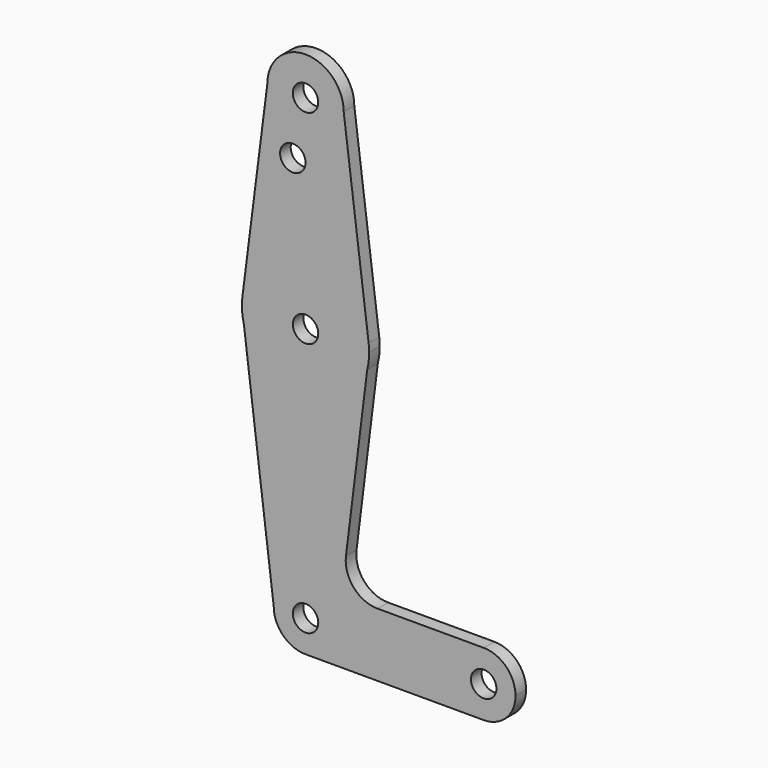
from build123d import *

# Parameters (mm, degrees)
F0_R     = 3.175
F1_DEPTH = 3.302


with BuildPart() as f1:
    # F0 (on Front) → F1 (new body)
    with BuildSketch(Plane.XZ):
        with BuildLine():
            ThreePointArc((-9.525, 114.3), (0, 104.775), (9.525, 114.3))
            ThreePointArc((9.525, 114.3), (0, 123.825), (-9.525, 114.3))
        make_face()
        with Locations((0, 114.3)):
            Circle(F0_R, mode=Mode.SUBTRACT)
        with BuildLine():
            Line((15.747457, 65.508289), (9.525, 114.3))
            ThreePointArc((9.525, 114.3), (0, 104.775), (-9.525, 114.3))
            Line((-9.525, 114.3), (-15.747457, 65.508289))
            ThreePointArc((-15.747457, 65.508289), (0, 79.375), (15.747457, 65.508289))
        make_face()
        with Locations((-3.175, 100.0252)):
            Circle(F0_R, mode=Mode.SUBTRACT)
        with BuildLine():
            ThreePointArc((15.875, 63.5), (15.843082, 64.506168), (15.747457, 65.508289))
            ThreePointArc((15.747457, 65.508289), (0, 79.375), (-15.747457, 65.508289))
            ThreePointArc((-15.747457, 65.508289), (-15.843082, 64.506168), (-15.875, 63.5))
            Line((-15.875, 63.5), (-15.386538, 59.592308))
            ThreePointArc((-15.386538, 59.592308), (0.011376, 47.625004), (15.392123, 59.614363))
            Line((15.392123, 59.614363), (15.875, 63.5))
        make_face()
        with Locations((0, 63.5)):
            Circle(F0_R, mode=Mode.SUBTRACT)
        with BuildLine():
            ThreePointArc((15.392123, 59.614363), (15.753818, 61.542237), (15.875, 63.5))
            Line((15.875, 63.5), (15.392123, 59.614363))
        make_face()
        with BuildLine():
            Line((-15.386538, 59.592308), (-15.875, 63.5))
            ThreePointArc((-15.875, 63.5), (-15.752411, 61.530949), (-15.386538, 59.592308))
        make_face()
        with BuildLine():
            Line((10.082594, 16.889395), (15.392123, 59.614363))
            ThreePointArc((15.392123, 59.614363), (0.011376, 47.625004), (-15.386538, 59.592308))
            Line((-15.386538, 59.592308), (-7.9375, 0))
            ThreePointArc((-7.9375, 0), (0, 7.9375), (7.9375, 0))
            ThreePointArc((7.9375, 0), (5.61266, -5.61266), (0, -7.9375))
            Line((0, -7.9375), (44.45, -7.9375))
            ThreePointArc((44.45, -7.9375), (36.5125, 0), (44.45, 7.9375))
            Line((44.45, 7.9375), (17.969436, 7.9375))
            ThreePointArc((17.969436, 7.9375), (12.004147, 10.632131), (10.082594, 16.889395))
        make_face()
        with BuildLine():
            ThreePointArc((7.9375, 0), (0, 7.9375), (-7.9375, 0))
            ThreePointArc((-7.9375, 0), (-5.61266, -5.61266), (0, -7.9375))
            ThreePointArc((0, -7.9375), (5.61266, -5.61266), (7.9375, 0))
        make_face()
        Circle(F0_R, mode=Mode.SUBTRACT)
        with BuildLine():
            ThreePointArc((52.3875, 0), (50.06266, 5.61266), (44.45, 7.9375))
            ThreePointArc((44.45, 7.9375), (36.5125, 0), (44.45, -7.9375))
            ThreePointArc((44.45, -7.9375), (50.06266, -5.61266), (52.3875, 0))
        make_face()
        with Locations((44.45, 0)):
            Circle(F0_R, mode=Mode.SUBTRACT)
    extrude(amount=F1_DEPTH)


solid = f1.part
